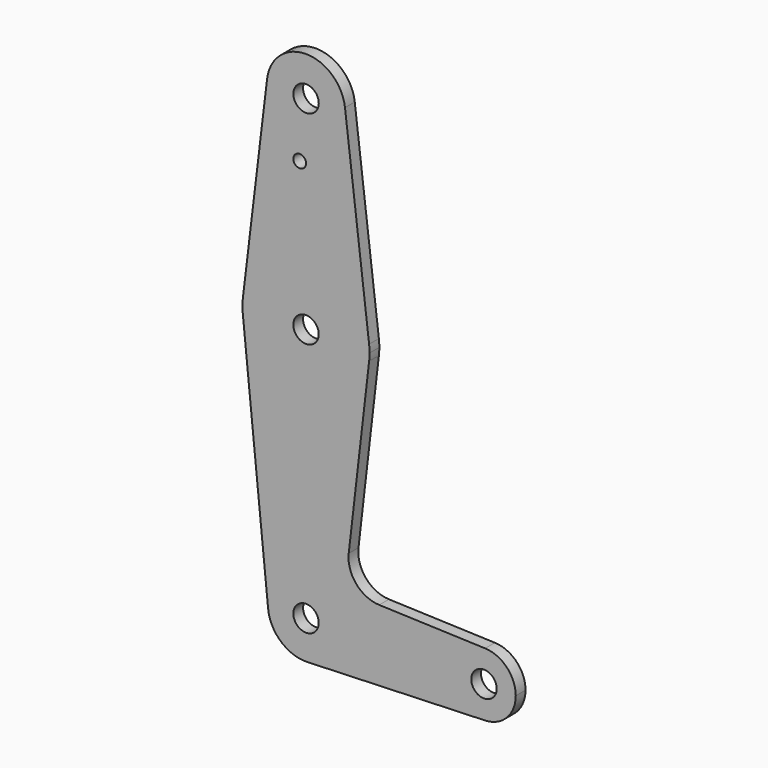
from build123d import *

# Parameters (mm, degrees)
F0_R     = 3.175
F0_R_2   = 1.5875
F1_DEPTH = 3.048


with BuildPart() as f1:
    # F0 (on Front) → F1 (new body)
    with BuildSketch(Plane.XZ):
        with BuildLine():
            ThreePointArc((-9.730574, 115.473779), (-0.587948, 104.516537), (9.801114, 114.3))
            ThreePointArc((9.801114, 114.3), (9.783578, 114.886026), (9.731035, 115.469955))
            ThreePointArc((9.731035, 115.469955), (0.001926, 124.101114), (-9.730574, 115.473779))
        make_face()
        with Locations((0, 114.3)):
            Circle(F0_R, mode=Mode.SUBTRACT)
        with BuildLine():
            ThreePointArc((9.731035, 115.469955), (9.783578, 114.886026), (9.801114, 114.3))
            ThreePointArc((9.801114, 114.3), (-0.587948, 104.516537), (-9.730574, 115.473779))
            Line((-9.730574, 115.473779), (-15.770728, 65.401186))
            ThreePointArc((-15.770728, 65.401186), (-0.006862, 79.375), (15.75151, 65.394992))
            Line((15.75151, 65.394992), (9.731035, 115.469955))
        make_face()
        with Locations((-1.5875, 100.0252)):
            Circle(F0_R_2, mode=Mode.SUBTRACT)
        with BuildLine():
            ThreePointArc((15.865018, 63.5), (15.836616, 64.449194), (15.75151, 65.394992))
            ThreePointArc((15.75151, 65.394992), (-0.006862, 79.375), (-15.770728, 65.401186))
            ThreePointArc((-15.770728, 65.401186), (-15.88421, 63.656551), (-15.805158, 61.910017))
            ThreePointArc((-15.805158, 61.910017), (-10.654628, 51.722601), (0, 47.625003))
            ThreePointArc((0, 47.625003), (10.552319, 51.648695), (15.759207, 61.670163))
            ThreePointArc((15.759207, 61.670163), (15.838543, 62.583553), (15.865018, 63.5))
        make_face()
        with Locations((-0.009982, 63.5)):
            Circle(F0_R, mode=Mode.SUBTRACT)
        with BuildLine():
            ThreePointArc((0, 47.625003), (-10.654628, 51.722601), (-15.805158, 61.910017))
            Line((-15.805158, 61.910017), (-9.477105, -0.95399))
            ThreePointArc((-9.477105, -0.95399), (-7.064431, 6.389009), (0, 9.525))
            Line((0, 9.525), (0, 47.625003))
        make_face()
        with BuildLine():
            Line((10.661549, 17.739502), (15.759207, 61.670163))
            ThreePointArc((15.759207, 61.670163), (10.552319, 51.648695), (0, 47.625003))
            Line((0, 47.625003), (0, 9.525))
            ThreePointArc((0, 9.525), (6.735192, 6.735192), (9.525, 0))
            ThreePointArc((9.525, 0), (6.854408, -6.613827), (0.340179, -9.518923))
            Line((0.340179, -9.518923), (44.733482, -7.932436))
            ThreePointArc((44.733482, -7.932436), (36.5125, 0), (44.733482, 7.932436))
            Line((44.733482, 7.932436), (18.274823, 8.877992))
            ThreePointArc((18.274823, 8.877992), (12.528471, 11.64226), (10.661549, 17.739502))
        make_face()
        with BuildLine():
            ThreePointArc((0, 9.525), (-7.064431, 6.389009), (-9.477105, -0.95399))
            ThreePointArc((-9.477105, -0.95399), (-6.261819, -7.177412), (0.340179, -9.518923))
            ThreePointArc((0.340179, -9.518923), (6.854408, -6.613827), (9.525, 0))
            ThreePointArc((9.525, 0), (6.735192, 6.735192), (0, 9.525))
        make_face()
        Circle(F0_R, mode=Mode.SUBTRACT)
        with BuildLine():
            ThreePointArc((44.733482, 7.932436), (36.5125, 0), (44.733482, -7.932436))
            ThreePointArc((44.733482, -7.932436), (50.162007, -5.511523), (52.3875, 0))
            ThreePointArc((52.3875, 0), (50.162007, 5.511523), (44.733482, 7.932436))
        make_face()
        with Locations((44.45, 0)):
            Circle(F0_R, mode=Mode.SUBTRACT)
    extrude(amount=F1_DEPTH)


solid = f1.part
